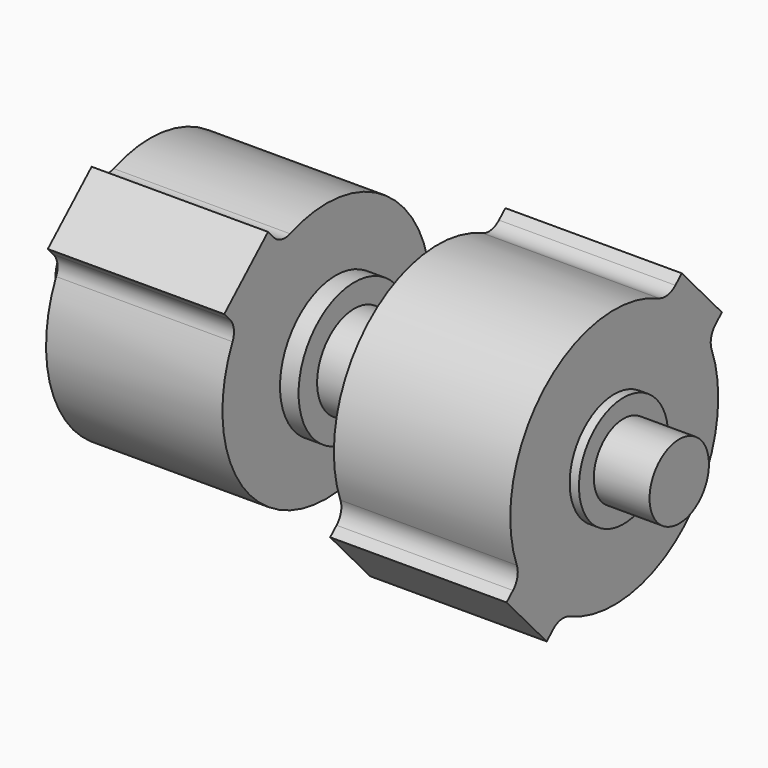
from build123d import *

# Parameters (mm, degrees)
F0_R      = 30
F1_DEPTH  = 5
F3_DEPTH  = 95
F4_R      = 25
F5_DEPTH  = 5
F6_R      = 37.5
F6_R_2    = 25
F7_DEPTH  = 10
F8_R      = 25
F9_DEPTH  = 30
F10_R     = 37.5
F11_DEPTH = 10
F12_R     = 25
F13_DEPTH = 5
F15_DEPTH = 95
F16_R     = 30
F17_DEPTH = 5
F18_R     = 20
F19_DEPTH = 30
F20_R     = 20
F21_DEPTH = 30
F22_R     = 10


with BuildPart() as f1:
    # F0 (on Right) → F1 (new body)
    with BuildSketch(Plane.YZ):
        Circle(F0_R)
    extrude(amount=F1_DEPTH)

    # F2 (on face) → F3 (join)
    with BuildSketch(Plane.YZ.offset(5)):
        with BuildLine():
            ThreePointArc((60.0712170477, -35.9367344428), (67.4721616422, -18.6415504541), (70, 0))
            ThreePointArc((70, 0), (37.1422350498, 59.333417022), (-30.5844107288, 62.9650206096))
            Line((-30.5844107288, 62.9650206096), (60.0712170477, -35.9367344428))
        make_face()
        with BuildLine():
            Line((60.0712170477, -35.9367344428), (-30.5844107288, 62.9650206096))
            ThreePointArc((-30.5844107288, 62.9650206096), (-47.2995007919, 51.601911058), (-60.0712170477, 35.9367344428))
            Line((-60.0712170477, 35.9367344428), (30.5844107288, -62.9650206096))
            ThreePointArc((30.5844107288, -62.9650206096), (47.2995007919, -51.601911058), (60.0712170477, -35.9367344428))
        make_face()
        with BuildLine():
            ThreePointArc((-60.0712170477, 35.9367344428), (-47.2995007919, 51.601911058), (-30.5844107288, 62.9650206096))
            Line((-30.5844107288, 62.9650206096), (-39.3131691742, 72.4877557211))
            Line((-39.3131691742, 72.4877557211), (-68.7999754931, 45.4594695543))
            Line((-68.7999754931, 45.4594695543), (-60.0712170477, 35.9367344428))
        make_face()
        with BuildLine():
            Line((68.7999754931, -45.4594695543), (60.0712170477, -35.9367344428))
            ThreePointArc((60.0712170477, -35.9367344428), (47.2995007919, -51.601911058), (30.5844107288, -62.9650206096))
            Line((30.5844107288, -62.9650206096), (39.3131691742, -72.4877557211))
            Line((39.3131691742, -72.4877557211), (68.7999754931, -45.4594695543))
        make_face()
        with BuildLine():
            Line((30.5844107288, -62.9650206096), (-60.0712170477, 35.9367344428))
            ThreePointArc((-60.0712170477, 35.9367344428), (-51.601911058, -47.2995007919), (30.5844107288, -62.9650206096))
        make_face()
    extrude(amount=F3_DEPTH)

    # F4 (on face) → F5 (join)
    with BuildSketch(Plane.YZ.offset(100)):
        Circle(F4_R)
    extrude(amount=F5_DEPTH)

    # F6 (on face) → F7 (join)
    with BuildSketch(Plane.YZ.offset(105)):
        Circle(F6_R)
        Circle(F6_R_2, mode=Mode.SUBTRACT)
        Circle(F6_R_2)
    extrude(amount=F7_DEPTH)

    # F8 (on face) → F9 (join)
    with BuildSketch(Plane.YZ.offset(115)):
        Circle(F8_R)
    extrude(amount=F9_DEPTH)

    # F10 (on face) → F11 (join)
    with BuildSketch(Plane.YZ.offset(145)):
        Circle(F10_R)
    extrude(amount=F11_DEPTH)

    # F12 (on face) → F13 (join)
    with BuildSketch(Plane.YZ.offset(155)):
        Circle(F12_R)
    extrude(amount=F13_DEPTH)

    # F14 (on face) → F15 (join)
    with BuildSketch(Plane.YZ.offset(160)):
        with BuildLine():
            Line((72.4877557211, 39.3131691742), (45.4594695543, 68.7999754931))
            Line((45.4594695543, 68.7999754931), (35.9367344428, 60.0712170477))
            ThreePointArc((35.9367344428, 60.0712170477), (51.601911058, 47.2995007919), (62.9650206096, 30.5844107288))
            Line((62.9650206096, 30.5844107288), (72.4877557211, 39.3131691742))
        make_face()
        with BuildLine():
            ThreePointArc((62.9650206096, 30.5844107288), (51.601911058, 47.2995007919), (35.9367344428, 60.0712170477))
            Line((35.9367344428, 60.0712170477), (-62.9650206096, -30.5844107288))
            ThreePointArc((-62.9650206096, -30.5844107288), (-51.601911058, -47.2995007919), (-35.9367344428, -60.0712170477))
            Line((-35.9367344428, -60.0712170477), (62.9650206096, 30.5844107288))
        make_face()
        with BuildLine():
            Line((-62.9650206096, -30.5844107288), (35.9367344428, 60.0712170477))
            ThreePointArc((35.9367344428, 60.0712170477), (-47.2995007919, 51.601911058), (-62.9650206096, -30.5844107288))
        make_face()
        with BuildLine():
            ThreePointArc((70, 0), (68.2185877993, 15.6915352551), (62.9650206096, 30.5844107288))
            Line((62.9650206096, 30.5844107288), (-35.9367344428, -60.0712170477))
            ThreePointArc((-35.9367344428, -60.0712170477), (34.5284563006, -60.8915897764), (70, 0))
        make_face()
        with BuildLine():
            ThreePointArc((-35.9367344428, -60.0712170477), (-51.601911058, -47.2995007919), (-62.9650206096, -30.5844107288))
            Line((-62.9650206096, -30.5844107288), (-72.4877557211, -39.3131691742))
            Line((-72.4877557211, -39.3131691742), (-45.4594695543, -68.7999754931))
            Line((-45.4594695543, -68.7999754931), (-35.9367344428, -60.0712170477))
        make_face()
    extrude(amount=F15_DEPTH)

    # F16 (on face) → F17 (join)
    with BuildSketch(Plane.YZ.offset(255)):
        Circle(F16_R)
    extrude(amount=F17_DEPTH)

    # F18 (on face) → F19 (join)
    with BuildSketch(Plane(origin=(0, 0, 0), x_dir=(0, -1, 0), z_dir=(-1, 0, 0))):
        Circle(F18_R)
    extrude(amount=F19_DEPTH)

    # F20 (on face) → F21 (join)
    with BuildSketch(Plane.YZ.offset(260)):
        Circle(F20_R)
    extrude(amount=F21_DEPTH)

    # F22
    f22_edges = [f1.edges().sort_by_distance(p)[0] for p in [
        (52.5, -60.071217, 35.936734),
        (207.5, -62.965021, -30.584411),
        (52.5, -30.584411, 62.965021),
        (207.5, 35.936734, 60.071217),
        (207.5, 62.965021, 30.584411),
        (52.5, 60.071217, -35.936734),
        (52.5, 30.584411, -62.965021),
        (207.5, -35.936734, -60.071217),
    ]]
    fillet(f22_edges, radius=F22_R)


solid = f1.part
